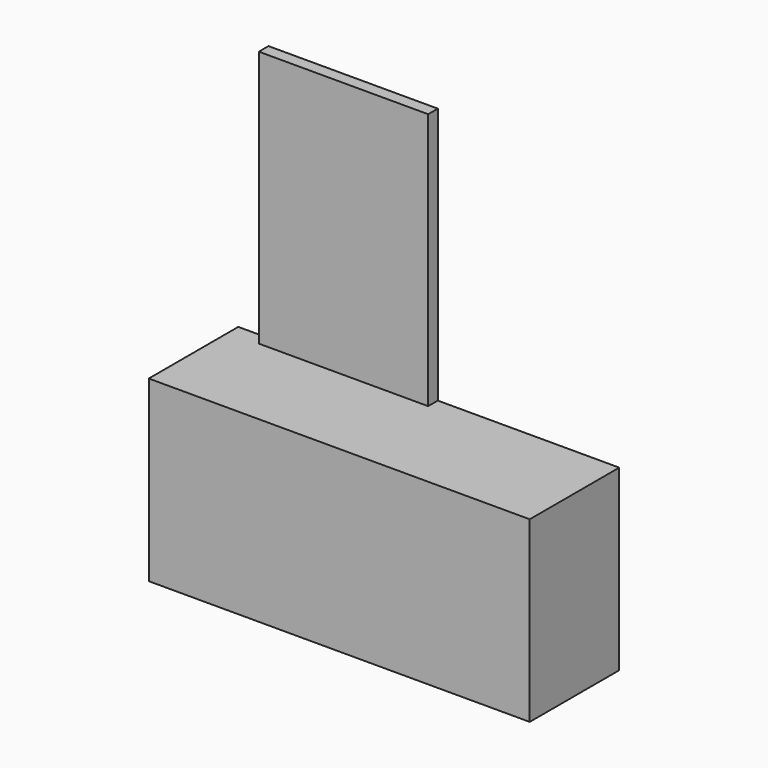
from build123d import *

# Parameters (mm, degrees)
F0_W     = 1600.2
F0_H     = 749.3
F1_DEPTH = 469.9
F2_W     = 711.2
F2_H     = 1079.5
F3_DEPTH = 50.8


with BuildPart() as f1:
    # F0 (on Front) → F1 (new body)
    with BuildSketch(Plane.XZ):
        with Locations((800.1, 374.65)):
            Rectangle(F0_W, F0_H)
    extrude(amount=F1_DEPTH)

    # F2 (on face) → F3 (join)
    with BuildSketch(Plane(origin=(0, 0, 0), x_dir=(-1, 0, 0), z_dir=(0, 1, 0))):
        with Locations((-482.6, 1289.05)):
            Rectangle(F2_W, F2_H)
    extrude(amount=-F3_DEPTH)


solid = f1.part
